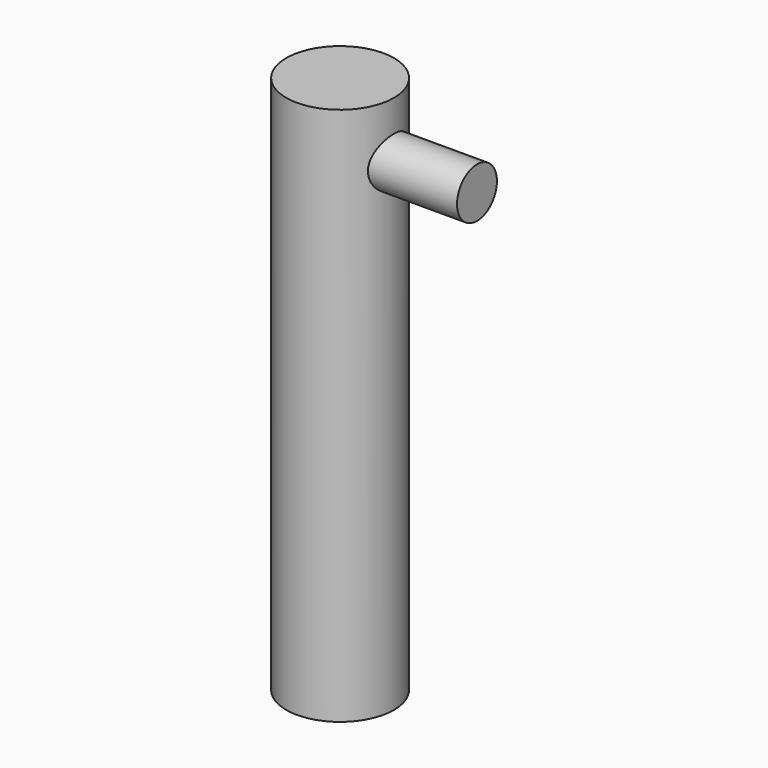
from build123d import *

# Parameters (mm, degrees)
F0_R     = 10
F1_DEPTH = 100
F2_R     = 4.628038
F3_DEPTH = 25.4


with BuildPart() as f1:
    # F0 (on Top) → F1 (new body)
    with BuildSketch(Plane.XY):
        Circle(F0_R)
    extrude(amount=F1_DEPTH)

    # F2 (on Right) → F3 (join)
    with BuildSketch(Plane.YZ):
        with Locations((0, 89.517951)):
            Circle(F2_R)
    extrude(amount=F3_DEPTH)


solid = f1.part
